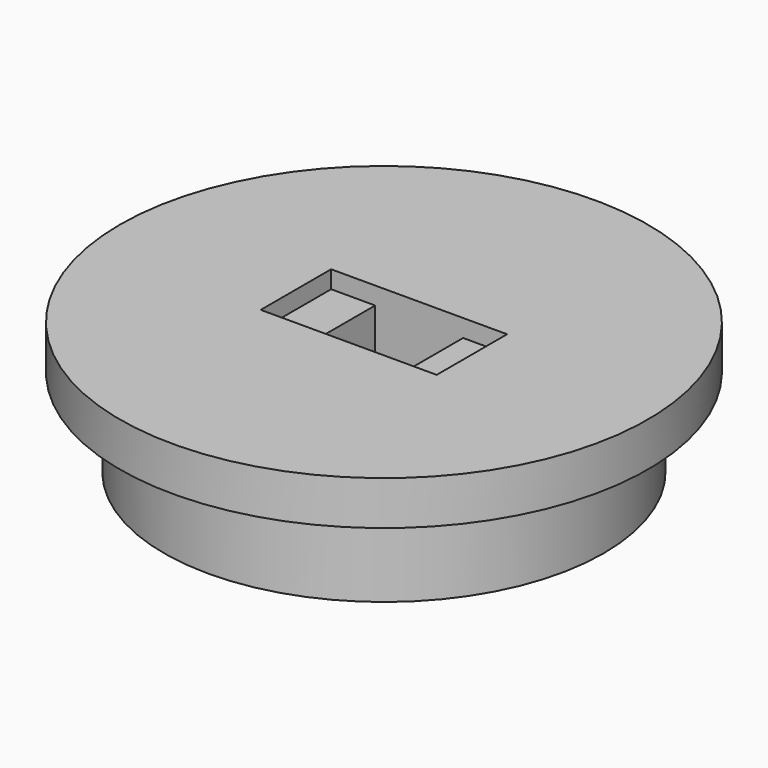
from build123d import *

# Parameters (mm, degrees)
F2_W     = 20
F2_H     = 10
F3_DEPTH = 2
F4_W     = 10
F4_H     = 10
F5_DEPTH = 25


with BuildPart() as f1:
    # F0 (on Front) → F1 (revolve)
    with BuildSketch(Plane.XZ):
        Polygon((0, 13.617994), (0, 28.617994), (-30, 28.617994), (-30, 23.617994), (-25, 23.617994), (-25, 13.617994), align=None)
    revolve(axis=Axis((0, 0, -2.582015), (0, 0, -1)))

    # F2 (on face) → F3 (cut)
    with BuildSketch(Plane.XY.offset(28.617994)):
        Rectangle(F2_W, F2_H)
    extrude(amount=-F3_DEPTH, mode=Mode.SUBTRACT)

    # F4 (on face) → F5 (cut)
    with BuildSketch(Plane.XY.offset(26.617994)):
        Rectangle(F4_W, F4_H)
    extrude(amount=-F5_DEPTH, mode=Mode.SUBTRACT)


solid = f1.part
